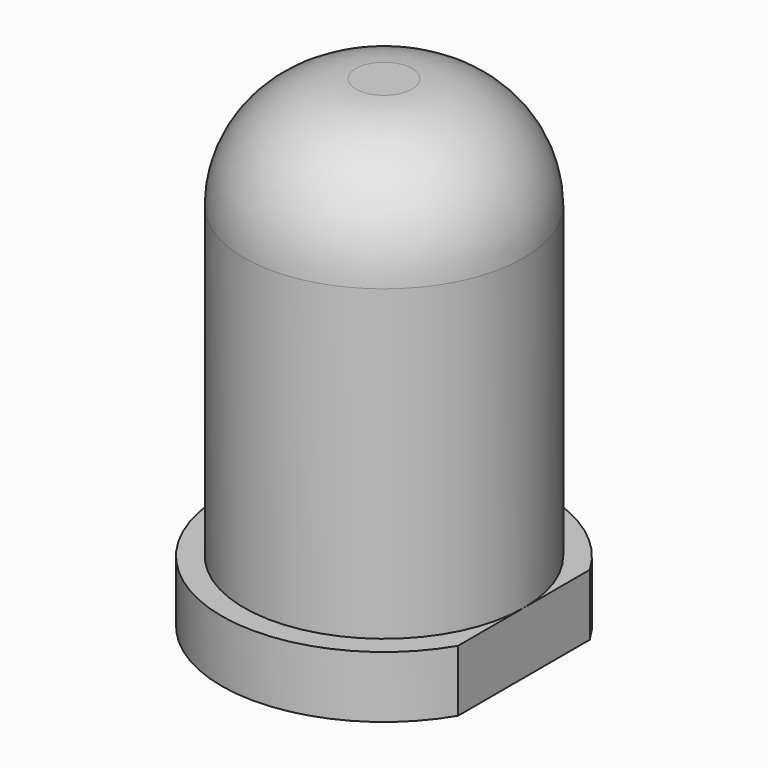
from build123d import *

# Parameters (mm, degrees)
F2_R     = 2.5
F0_DEPTH = 8.6
F3_DEPTH = 1.1
F4_R     = 2


with BuildPart() as f0:
    # F2 (on Top) → F0 (new body)
    with BuildSketch(Plane.XY):
        Circle(F2_R)
    extrude(amount=F0_DEPTH)

    # F1 (on Top) → F3 (join)
    with BuildSketch(Plane.XY):
        with BuildLine():
            Line((2.5, -1.469694), (2.5, 1.469694))
            ThreePointArc((2.5, 1.469694), (-2.9, 0), (2.5, -1.469694))
        make_face()
    extrude(amount=F3_DEPTH)

    # F4
    f4_edges = [f0.edges().sort_by_distance(p)[0] for p in [
        (-2.5, 0, 8.6),
    ]]
    fillet(f4_edges, radius=F4_R)


solid = f0.part
